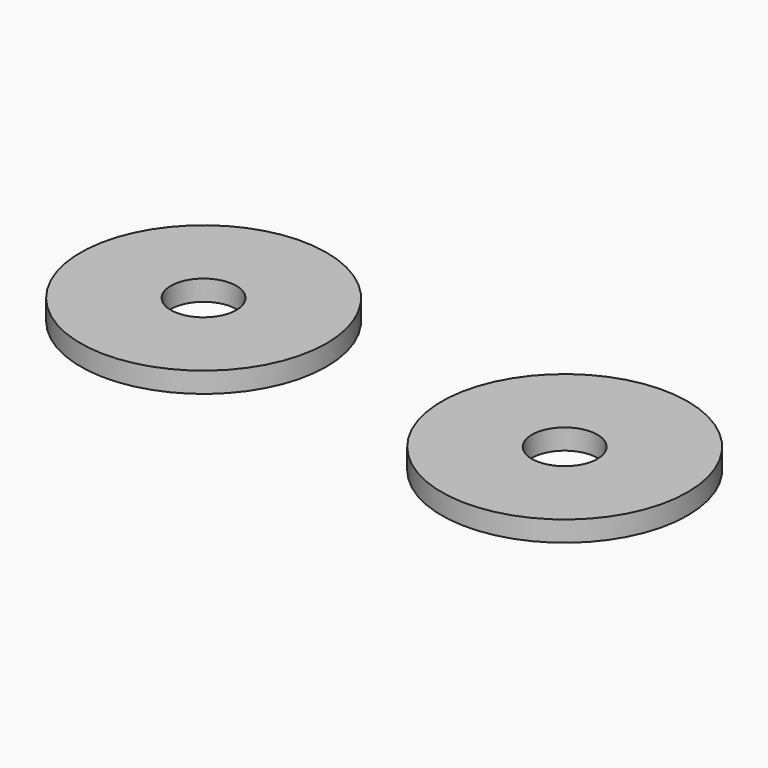
from build123d import *

# Parameters (mm, degrees)
F0_R     = 6
F0_R_2   = 1.6
F1_DEPTH = 1


with BuildPart() as f1:
    # F0 (on Top) → F1 (new body)
    with BuildSketch(Plane.XY):
        with Locations((12.316349, -17.54147)):
            Circle(F0_R)
        with Locations((12.316349, -17.54147)):
            Circle(F0_R_2, mode=Mode.SUBTRACT)
        with Locations((30.728675, -18.53673)):
            Circle(F0_R)
        with Locations((30.728675, -18.53673)):
            Circle(F0_R_2, mode=Mode.SUBTRACT)
    extrude(amount=F1_DEPTH)


solid = f1.part
